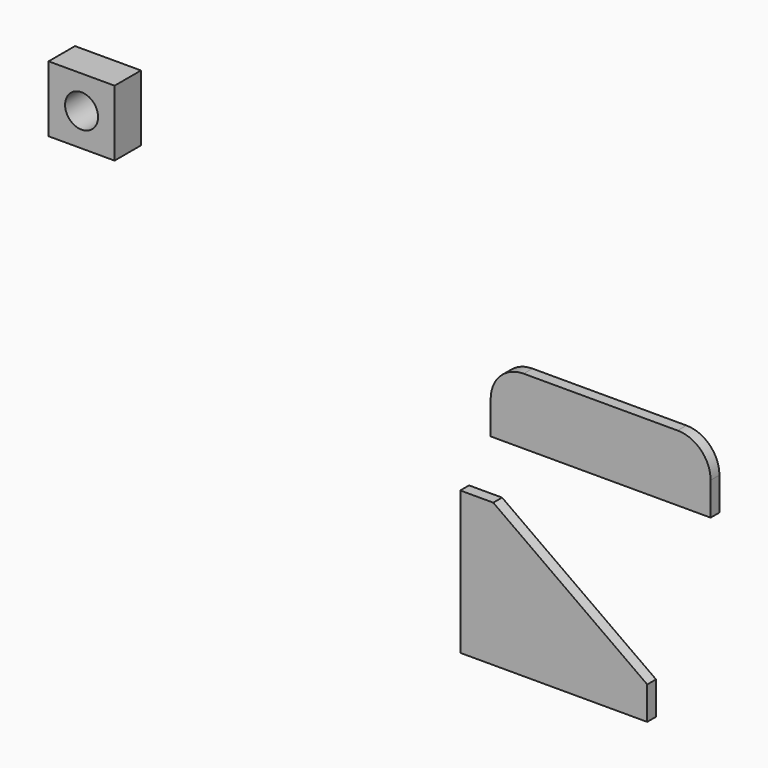
from build123d import *

# Parameters (mm, degrees)
F1_DEPTH = 6.35
F3_DEPTH = 6.35
F4_W     = 285.75
F4_H     = 258.96094
F5_DEPTH = 19.05
F6_W     = 38.1
F6_H     = 38.1
F6_R     = 9.525
F7_DEPTH = 19.05


with BuildPart() as f1:
    # F0 (on Front) → F1 (new body)
    with BuildSketch(Plane.XZ):
        Polygon((41.796481, -34.438996), (-47.103519, 29.061004), (-66.153519, 29.061004), (-66.153519, -53.488996), (41.796481, -53.488996), align=None)
    extrude(amount=-F1_DEPTH)


with BuildPart() as f3:
    # F2 (on Front) → F3 (new body)
    with BuildSketch(Plane.XZ):
        with BuildLine():
            Line((-48.600562, 62.236899), (78.399438, 62.236899))
            Line((78.399438, 62.236899), (78.399438, 81.286899))
            ThreePointArc((78.399438, 81.286899), (72.819822, 94.757283), (59.349438, 100.336899))
            Line((59.349438, 100.336899), (-29.550562, 100.336899))
            ThreePointArc((-29.550562, 100.336899), (-43.020946, 94.757283), (-48.600562, 81.286899))
            Line((-48.600562, 81.286899), (-48.600562, 62.236899))
        make_face()
    extrude(amount=-F3_DEPTH)


with BuildPart() as f5:
    # F4 (on Front) → F5 (new body)
    with BuildSketch(Plane.XZ):
        with Locations((-484.189391, 56.096062)):
            Rectangle(F4_W, F4_H)
    extrude(amount=F5_DEPTH)


with BuildPart() as f7:
    # F6 (on Front) → F7 (new body)
    with BuildSketch(Plane.XZ):
        with Locations((-269.567877, 163.548995)):
            Rectangle(F6_W, F6_H)
        with Locations((-269.567877, 163.548995)):
            Circle(F6_R, mode=Mode.SUBTRACT)
    extrude(amount=F7_DEPTH)


solid = Compound([f1.part, f3.part, f7.part])
